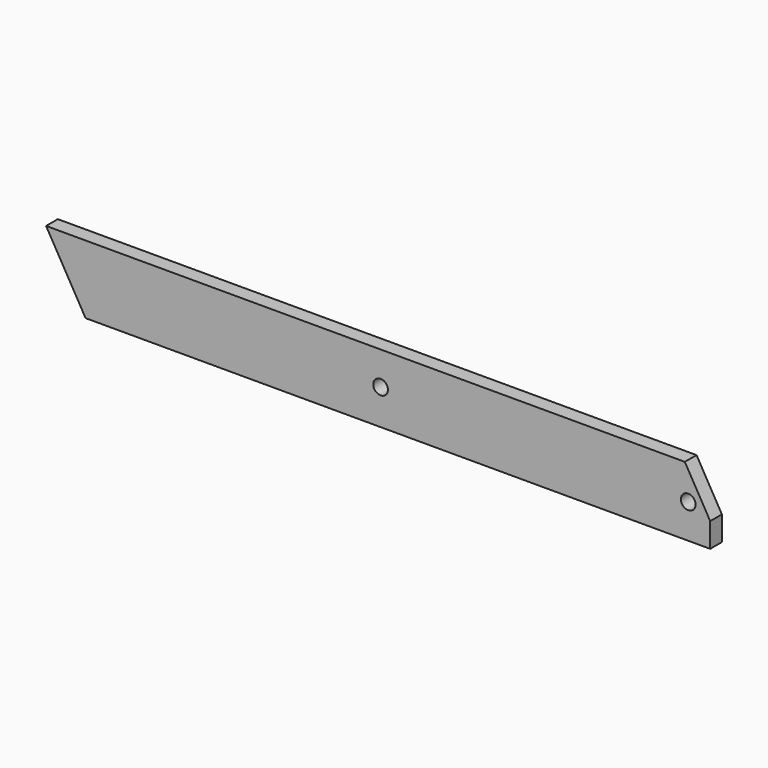
from build123d import *

# Parameters (mm, degrees)
F1_DEPTH = 19.05
F3_D     = 19.05
F5_D     = 19.05


with BuildPart() as f1:
    # F0 (on Front) → F1 (new body)
    with BuildSketch(Plane.XZ):
        Polygon((-812.273561069, 0), (0, 0), (0, 31.75), (-32.9955678842, 88.9), (-863.6, 88.9), align=None)
        Polygon((-812.273561069, 0), (0, 0), (0, 31.75), (-32.9955678842, 88.9), (-863.6, 88.9), align=None)
    extrude(amount=F1_DEPTH)

    # F3 (through all)
    with Locations(Plane(origin=(0, 0, 0), x_dir=(1, 0, 0), z_dir=(0, 1, 0))):
        with Locations((-28.575, -44.45)):
            Hole(F3_D / 2)

    # F5 (through all)
    with Locations(Plane(origin=(0, 0, 0), x_dir=(1, 0, 0), z_dir=(0, 1, 0))):
        with Locations((-428.625, -45.8583533764)):
            Hole(F5_D / 2)


solid = f1.part
